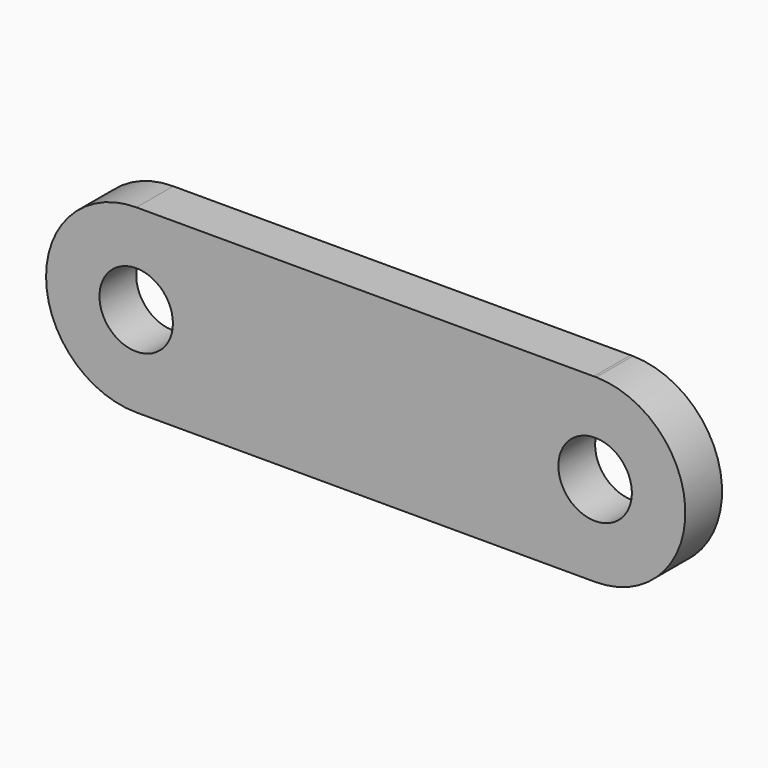
from build123d import *

# Parameters (mm, degrees)
F0_R     = 101.6
F1_DEPTH = 127


with BuildPart() as f1:
    # F0 (on Front) → F1 (new body)
    with BuildSketch(Plane.XZ):
        with BuildLine():
            ThreePointArc((-594.0216244621, -249.8060832513), (-418.1608697973, -176.2143231354), (-345.4197912369, 0))
            ThreePointArc((-345.4197912369, 0), (-418.4504005778, 176.5047791902), (-594.8418463027, 249.8087003181))
            ThreePointArc((-594.8418463027, 249.8087003181), (-845.0374545941, -0.4101130079), (-594.0216244621, -249.8060832513))
        make_face()
        with Locations((-595.7338213921, 0)):
            Circle(F0_R, mode=Mode.SUBTRACT)
        with BuildLine():
            ThreePointArc((-594.8418463027, 249.8087003181), (-418.4504005778, 176.5047791902), (-345.4197912369, 0))
            Line((-345.4197912369, 0), (424.1196184311, 0))
            ThreePointArc((424.1196184311, 0), (496.1168064855, 175.4636600941), (670.6079035898, 249.7869278684))
            Line((670.6079035898, 249.7869278684), (-594.8418463027, 249.8087003181))
        make_face()
        with BuildLine():
            Line((424.1196184311, 0), (-345.4197912369, 0))
            ThreePointArc((-345.4197912369, 0), (-418.1608697973, -176.2143231354), (-594.0216244621, -249.8060832513))
            Line((-594.0216244621, -249.8060832513), (672.6411559265, -249.8056823239))
            ThreePointArc((672.6411559265, -249.8056823239), (496.8323787734, -176.1858631676), (424.1196184311, 0))
        make_face()
        with BuildLine():
            ThreePointArc((670.6079035898, 249.7869278684), (496.1168064855, 175.4636600941), (424.1196184311, 0))
            ThreePointArc((424.1196184311, 0), (496.8323787734, -176.1858631676), (672.6411559265, -249.8056823239))
            Line((672.6411559265, -249.8056823239), (675.216239074, -249.8056815088))
            ThreePointArc((675.216239074, -249.8056815088), (851.0249138556, -176.1858071126), (923.7376184311, 0))
            ThreePointArc((923.7376184311, 0), (851.7434492563, 175.4606007615), (677.2579285912, 249.7868134527))
            Line((677.2579285912, 249.7868134527), (670.6079035898, 249.7869278684))
        make_face()
        with BuildLine():
            ThreePointArc((775.6443706512, 0), (674.0443706512, -101.6), (572.4443706512, 0))
            ThreePointArc((572.4443706512, 0), (674.0443706512, 101.6), (775.6443706512, 0))
        make_face(mode=Mode.SUBTRACT)
        with BuildLine():
            ThreePointArc((677.2579285912, 249.7868134527), (673.9329164713, 249.808999963), (670.6079035898, 249.7869278684))
            Line((670.6079035898, 249.7869278684), (677.2579285912, 249.7868134527))
        make_face()
        with BuildLine():
            Line((675.216239074, -249.8056815088), (672.6411559265, -249.8056823239))
            ThreePointArc((672.6411559265, -249.8056823239), (673.9286975013, -249.809), (675.216239074, -249.8056815088))
        make_face()
    extrude(amount=F1_DEPTH)


solid = f1.part
